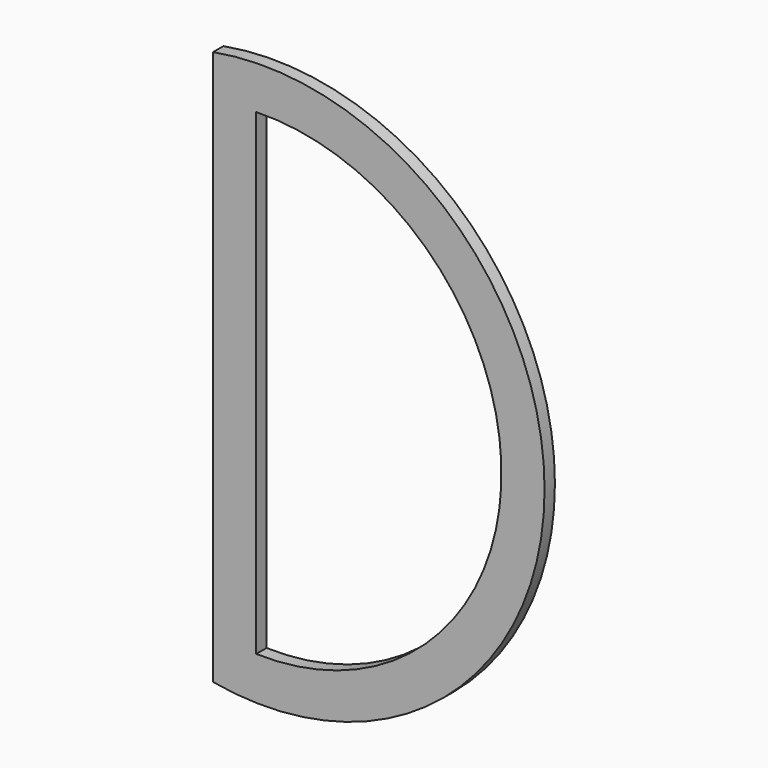
from build123d import *

# Parameters (mm, degrees)
F1_DEPTH = 0.762
F2_T     = -2.54


with BuildPart() as f1:
    # F0 (on Front) → F1 (new body)
    with BuildSketch(Plane.XZ):
        with BuildLine():
            ThreePointArc((0, -16.643301), (14.531137, -0.305381), (0, 16.032539))
            Line((0, 16.032539), (0, -16.643301))
        make_face()
        with BuildLine():
            ThreePointArc((0, -16.643301), (19.530818, -0.305381), (0, 16.032539))
            ThreePointArc((0, 16.032539), (14.531137, -0.305381), (0, -16.643301))
        make_face()
    extrude(amount=F1_DEPTH)

    # F2
    f2_openings = [f1.faces().sort_by_distance(p)[0] for p in [
        (8.421474, 0, -0.305381),
        (8.421474, -0.762, -0.305381),
    ]]
    offset(amount=F2_T, openings=f2_openings)


solid = f1.part
